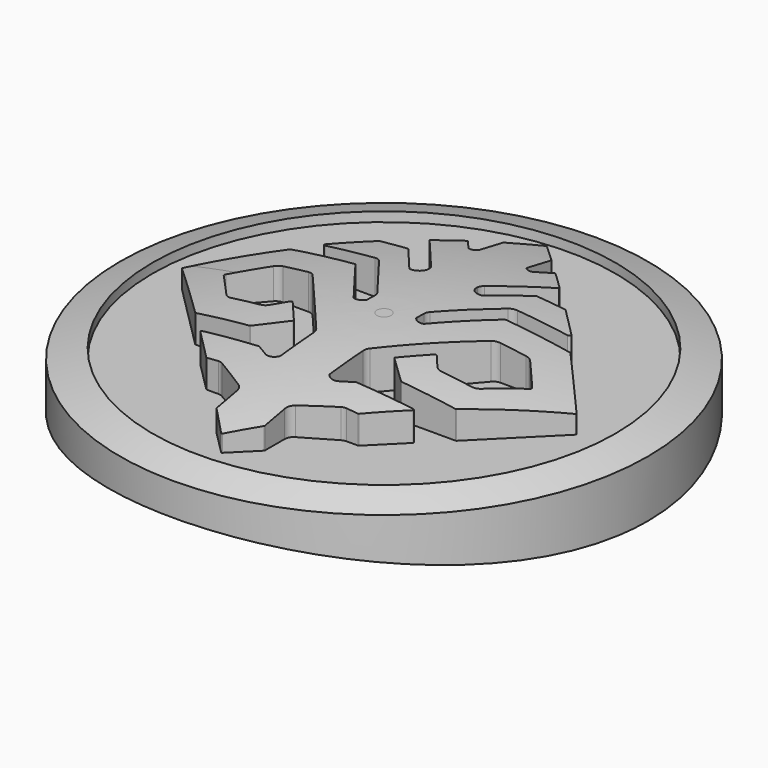
from build123d import *

# Parameters (mm, degrees)
F0_R      = 32.5
F1_DEPTH  = 12
F3_DEPTH  = 33
F6_R      = 28.5
F7_DEPTH  = 5
F8_R      = 1.1
F9_R      = 0.1
F11_R     = 1.6
F12_DEPTH = 6


with BuildPart() as f1:
    # F0 (on Top) → F1 (new body)
    with BuildSketch(Plane.XY):
        Circle(F0_R)
    extrude(amount=-F1_DEPTH)

    # F2 (on Front) → F3 (cut, symmetric)
    with BuildSketch(Plane.XZ):
        with BuildLine():
            Line((32.5, -22.63361), (32.5, -12))
            ThreePointArc((32.5, -12), (0, -8.999284), (-32.5, -12))
            Line((-32.5, -12), (-32.5, -22.63361))
            Line((-32.5, -22.63361), (32.5, -22.63361))
        make_face()
    extrude(amount=F3_DEPTH, both=True, mode=Mode.SUBTRACT)

    # F4 (on Front) → F5 (revolve, cut)
    with BuildSketch(Plane.XZ):
        with BuildLine():
            ThreePointArc((-32.5, -5), (-16.44146, -1.254597), (0, 0.003639))
            Line((0, 0.003639), (0, 1.313605))
            Line((0, 1.313605), (-35.265602, 1.313605))
            Line((-35.265602, 1.313605), (-35.265602, -5))
            Line((-35.265602, -5), (-32.5, -5))
        make_face()
    revolve(axis=Axis((0, 0, -1.29309), (0, 0, -1)), mode=Mode.SUBTRACT)

    # F6 (on face) → F7 (cut)
    with BuildSketch(Plane.XY):
        Circle(F6_R)
        with BuildLine():
            Line((2.960259, -22.08005), (0, -25.04031))
            Line((0, -25.04031), (-2.960259, -22.08005))
            Line((-2.960259, -22.08005), (-2.960259, -18.353606))
            Line((-2.960259, -18.353606), (-7.592194, -15.637134))
            Line((-7.592194, -15.637134), (-9.368349, -15.637134))
            Line((-9.368349, -15.637134), (-13.268926, -11.736556))
            Line((-13.268926, -11.736556), (-5.990172, -11.736556))
            Line((-5.990172, -11.736556), (-4.422976, -12.642048))
            ThreePointArc((-4.422976, -12.642048), (-3.641233, -12.655366), (-3.034823, -12.161842))
            Line((-3.034823, -12.161842), (-3.034823, -6.611271))
            Line((-3.034823, -6.611271), (-11.318638, 3.134392))
            Line((-11.318638, 3.134392), (-15.463, 3.134392))
            Line((-15.463, 3.134392), (-18.841179, -0.731359))
            ThreePointArc((-18.841179, -0.731359), (-18.92052, -0.922905), (-18.841179, -1.114451))
            Line((-18.841179, -1.114451), (-15.323694, -5.049854))
            Line((-15.323694, -5.049854), (-10.622106, -5.049854))
            Line((-10.622106, -5.049854), (-9.05491, -3.169219))
            ThreePointArc((-9.05491, -3.169219), (-8.880777, -3.088693), (-8.706644, -3.169219))
            Line((-8.706644, -3.169219), (-6.176002, -6.146445))
            Line((-6.176002, -6.146445), (-9.298697, -8.985257))
            Line((-9.298697, -8.985257), (-16.055053, -8.985257))
            Line((-16.055053, -8.985257), (-24.308951, -0.731359))
            Line((-24.308951, -0.731359), (-17.239156, 7.139448))
            Line((-17.239156, 7.139448), (-9.229043, 7.139448))
            Line((-9.229043, 7.139448), (-4.307032, 0.708019))
            ThreePointArc((-4.307032, 0.708019), (-3.58513, 0.722491), (-3.029913, 1.184103))
            Line((-3.029913, 1.184103), (-3.029913, 2.751299))
            Line((-3.029913, 2.751299), (-8.253899, 9.577309))
            Line((-8.253899, 9.577309), (-14.940602, 9.577309))
            ThreePointArc((-14.940602, 9.577309), (-15.12047, 9.688937), (-15.184388, 9.890748))
            Line((-15.184388, 9.890748), (-11.457944, 13.617192))
            Line((-11.457944, 13.617192), (-7.903541, 13.617192))
            Line((-7.903541, 13.617192), (-4.43179, 9.441379))
            ThreePointArc((-4.43179, 9.441379), (-3.611767, 9.547113), (-3.029913, 10.134534))
            Line((-3.029913, 10.134534), (-3.029913, 11.040025))
            Line((-3.029913, 11.040025), (-8.010113, 17.030196))
            Line((-8.010113, 17.030196), (-5.39812, 19.642189))
            Line((-5.39812, 19.642189), (-3.935403, 17.935687))
            ThreePointArc((-3.935403, 17.935687), (-3.374804, 17.905344), (-2.960259, 18.283953))
            Line((-2.960259, 18.283953), (-2.960259, 22.08005))
            Line((-2.960259, 22.08005), (0, 25.040309))
            Line((0, 25.040309), (2.960259, 22.08005))
            Line((2.960259, 22.08005), (2.960259, 18.283953))
            ThreePointArc((2.960259, 18.283953), (3.374804, 17.905344), (3.935403, 17.935687))
            Line((3.935403, 17.935687), (5.39812, 19.642189))
            Line((5.39812, 19.642189), (8.010113, 17.030196))
            Line((8.010113, 17.030196), (3.029913, 11.040025))
            Line((3.029913, 11.040025), (3.029913, 10.134534))
            ThreePointArc((3.029913, 10.134534), (3.611767, 9.547113), (4.43179, 9.441379))
            Line((4.43179, 9.441379), (7.903541, 13.617192))
            Line((7.903541, 13.617192), (11.457944, 13.617192))
            Line((11.457944, 13.617192), (15.184388, 9.890748))
            ThreePointArc((15.184388, 9.890748), (15.12047, 9.688937), (14.940602, 9.577309))
            Line((14.940602, 9.577309), (8.253899, 9.577309))
            Line((8.253899, 9.577309), (3.029913, 2.751299))
            Line((3.029913, 2.751299), (3.029913, 1.184103))
            ThreePointArc((3.029913, 1.184103), (3.58513, 0.722491), (4.307032, 0.708019))
            Line((4.307032, 0.708019), (9.229043, 7.139448))
            Line((9.229043, 7.139448), (17.239156, 7.139448))
            Line((17.239156, 7.139448), (24.308951, -0.731359))
            Line((24.308951, -0.731359), (16.055053, -8.985257))
            Line((16.055053, -8.985257), (9.298697, -8.985257))
            Line((9.298697, -8.985257), (6.176002, -6.146445))
            Line((6.176002, -6.146445), (8.706644, -3.169219))
            ThreePointArc((8.706644, -3.169219), (8.880777, -3.088693), (9.05491, -3.169219))
            Line((9.05491, -3.169219), (10.622106, -5.049854))
            Line((10.622106, -5.049854), (15.323694, -5.049854))
            Line((15.323694, -5.049854), (18.841179, -1.114451))
            ThreePointArc((18.841179, -1.114451), (18.92052, -0.922905), (18.841179, -0.731359))
            Line((18.841179, -0.731359), (15.463, 3.134392))
            Line((15.463, 3.134392), (11.318638, 3.134392))
            Line((11.318638, 3.134392), (3.034823, -6.611271))
            Line((3.034823, -6.611271), (3.034823, -12.161842))
            ThreePointArc((3.034823, -12.161842), (3.641233, -12.655366), (4.422976, -12.642048))
            Line((4.422976, -12.642048), (5.990172, -11.736556))
            Line((5.990172, -11.736556), (13.268926, -11.736556))
            Line((13.268926, -11.736556), (9.368349, -15.637134))
            Line((9.368349, -15.637134), (7.592194, -15.637134))
            Line((7.592194, -15.637134), (2.960259, -18.353606))
            Line((2.960259, -18.353606), (2.960259, -22.08005))
        make_face(mode=Mode.SUBTRACT)
    extrude(amount=-F7_DEPTH, mode=Mode.SUBTRACT)

    # F8
    f8_edges = [f1.edges().sort_by_distance(p)[0] for p in [
        (3.029913, 11.040025, -2.802281),
        (3.029913, 10.134534, -2.757687),
        (-3.029913, 11.040025, -2.802281),
        (-3.029913, 10.134534, -2.757687),
        (3.029913, 2.751299, -2.53695),
        (-3.029913, 2.751299, -2.53695),
        (-8.253899, 9.577309, -2.869311),
        (8.253899, 9.577309, -2.869311),
        (11.318638, 3.134392, -2.818277),
        (15.463, 3.134392, -3.077241),
        (-11.318638, 3.134392, -2.818277),
        (-15.463, 3.134392, -3.077241),
        (10.622106, -5.049854, -2.819195),
        (15.323694, -5.049854, -3.103882),
        (-10.622106, -5.049854, -2.819195),
        (-15.323694, -5.049854, -3.103882),
        (-3.034823, -6.611271, -2.620761),
        (3.034823, -6.611271, -2.620761),
        (7.592194, -15.637134, -3.201888),
        (2.960259, -18.353606, -3.303859),
        (-2.960259, -18.353606, -3.303859),
        (-7.592194, -15.637134, -3.201888),
    ]]
    fillet(f8_edges, radius=F8_R)

    # F9
    f9_edges = [f1.edges().sort_by_distance(p)[0] for p in [
        (0, -25.04031, -3.968958),
        (-2.960259, -22.08005, -3.658942),
        (-9.368349, -15.637134, -3.272555),
        (-13.268926, -11.736556, -3.229205),
        (-5.990172, -11.736556, -2.901418),
        (-6.176002, -6.146445, -2.674131),
        (-9.298697, -8.985257, -2.886435),
        (-16.055053, -8.985257, -3.287143),
        (-24.308951, -0.731359, -3.884453),
        (-17.239156, 7.139448, -3.309831),
        (-9.229043, 7.139448, -2.814113),
        (-11.457944, 13.617192, -3.23601),
        (-7.903541, 13.617192, -3.074821),
        (-5.39812, 19.642189, -3.466967),
        (-2.960259, 22.08005, -3.658942),
        (0, 25.040309, -3.968957),
        (2.960259, 22.08005, -3.658942),
        (5.39812, 19.642189, -3.466967),
        (8.010113, 17.030196, -3.323996),
        (7.903541, 13.617192, -3.074821),
        (11.457944, 13.617192, -3.23601),
        (9.229043, 7.139448, -2.814113),
        (17.239156, 7.139448, -3.309831),
        (24.308951, -0.731359, -3.884453),
        (6.176002, -6.146445, -2.674131),
        (9.298697, -8.985257, -2.886435),
        (16.055053, -8.985257, -3.287143),
        (13.268926, -11.736556, -3.229205),
        (9.368349, -15.637134, -3.272555),
        (2.960259, -22.08005, -3.658942),
    ]]
    fillet(f9_edges, radius=F9_R)

    # F11 (on offset) → F12 (cut)
    with BuildSketch(Plane.XY.offset(-12)):
        with Locations((-25, 0)):
            Circle(F11_R)
        with Locations((25, 0)):
            Circle(F11_R)
    extrude(amount=F12_DEPTH, mode=Mode.SUBTRACT)


solid = f1.part
